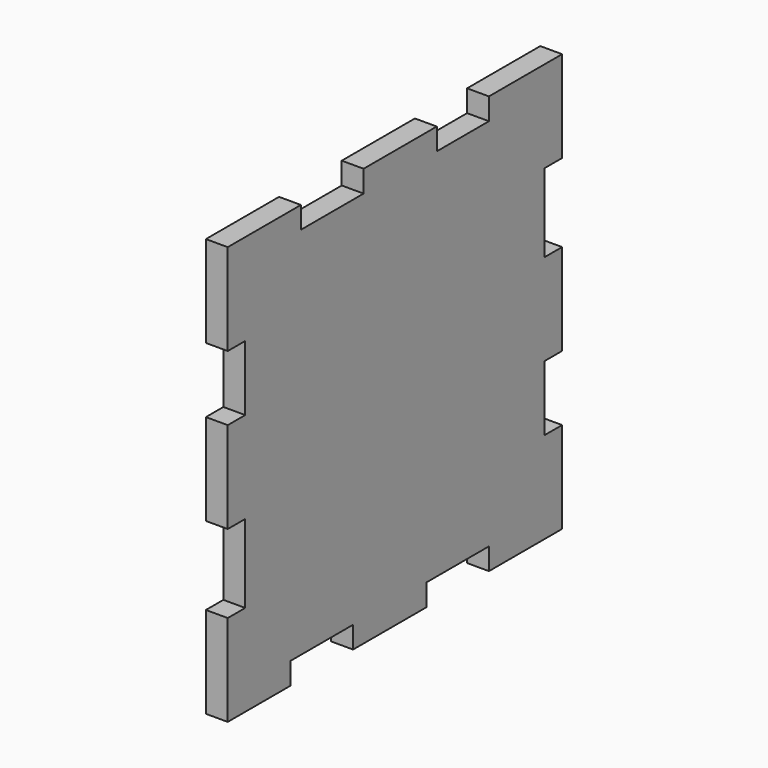
from build123d import *

# Parameters (mm, degrees)
F0_W     = 24.439
F0_H     = 5.842
F0_W_2   = 5.842
F0_H_2   = 24.439
F1_DEPTH = 5.842


with BuildPart() as f1:
    # F0 (on Right) → F1 (new body)
    with BuildSketch(Plane.YZ):
        Polygon((50, 31.403), (50, 50), (31.403, 50), (13.971, 50), (-10.468, 50), (-31.403, 50), (-50, 50), (-50, 31.403), (-50, 13.972), (-50, -10.467), (-50, -31.403), (-50, -50), (-34.907, -50), (-13.972, -50), (10.467, -50), (31.403, -50), (50, -50), (50, -31.403), (50, -13.971), (50, 10.468), align=None)
        Polygon((31.403, 50), (50, 50), (50, 31.403), (55.842, 31.403), (55.842, 55.842), (31.403, 55.842), align=None)
        with Locations((1.7515, 52.921)):
            Rectangle(F0_W, F0_H)
        with Locations((52.921, -1.7515)):
            Rectangle(F0_W_2, F0_H_2)
        Polygon((-50, 50), (-31.403, 50), (-31.403, 55.842), (-55.842, 55.842), (-55.842, 31.403), (-50, 31.403), align=None)
        Polygon((55.842, -31.403), (50, -31.403), (50, -50), (31.403, -50), (31.403, -55.842), (55.842, -55.842), (55.842, -50), align=None)
        with Locations((-52.921, 1.7525)):
            Rectangle(F0_W_2, F0_H_2)
        with Locations((-1.7525, -52.921)):
            Rectangle(F0_W, F0_H)
        Polygon((-50, -50), (-50, -31.403), (-55.842, -31.403), (-55.842, -55.842), (-34.907, -55.842), (-34.907, -50), align=None)
    extrude(amount=F1_DEPTH)


solid = f1.part
